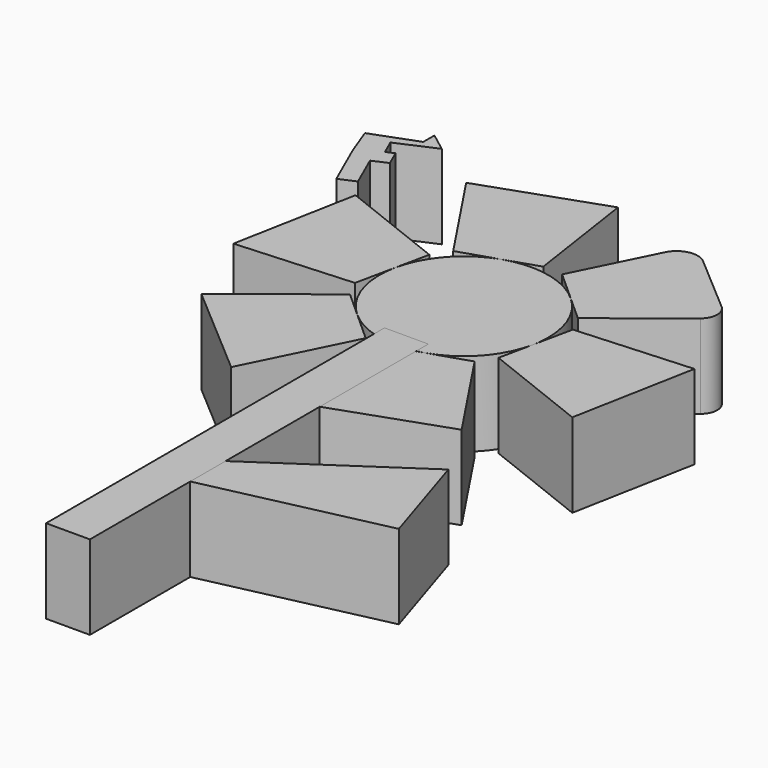
from build123d import *

# Parameters (mm, degrees)
F1_DEPTH = 25.4
F2_W     = 13.239067
F2_H     = 127.785755
F3_DEPTH = 25.4
F5_DEPTH = 25.4
F6_R     = 5.08
F8_DEPTH = 25.4


with BuildPart() as f1:
    # F0 (on Top) → F1 (new body)
    with BuildSketch(Plane.XY):
        with BuildLine():
            ThreePointArc((24.967536, -5.2811), (25.381471, -2.654956), (25.51995, 0))
            ThreePointArc((25.51995, 0), (23.308477, 10.391476), (17.057334, 18.98197))
            ThreePointArc((17.057334, 18.98197), (5.2811, 24.967536), (-7.910201, 24.26307))
            ThreePointArc((-7.910201, 24.26307), (-18.98197, 17.057334), (-24.967536, 5.2811))
            ThreePointArc((-24.967536, 5.2811), (-24.26307, -7.910201), (-17.057334, -18.98197))
            ThreePointArc((-17.057334, -18.98197), (-5.2811, -24.967536), (7.910201, -24.26307))
            ThreePointArc((7.910201, -24.26307), (18.98197, -17.057334), (24.967536, -5.2811))
        make_face()
        with BuildLine():
            Line((7.914659, 27.197644), (17.057334, 18.98197))
            Line((17.057334, 18.98197), (24.797997, 12.026155))
            Line((24.797997, 12.026155), (52.236743, 33.817176))
            Line((52.236743, 33.817176), (29.656374, 53.236297))
            ThreePointArc((29.656374, 53.236297), (24.25265, 54.644894), (19.82591, 51.240727))
            Line((19.82591, 51.240727), (7.914659, 27.197644))
        make_face()
        Polygon((-19.596521, 20.453117), (-7.910201, 24.26307), (1.984043, 27.488773), (-3.168162, 62.146935), (-38.993702, 49.597875), align=None)
        Polygon((-27.51118, -6.744527), (-24.967536, 5.2811), (-22.813954, 15.462618), (-55.404905, 28.329759), (-62.449871, -8.970598), align=None)
        Polygon((-7.914659, -27.197644), (-17.057334, -18.98197), (-24.797997, -12.026155), (-52.236743, -33.817176), (-23.456169, -58.568474), align=None)
        Polygon((19.596521, -20.453117), (7.910201, -24.26307), (-1.984043, -27.488773), (3.168162, -62.146935), (38.993702, -49.597875), align=None)
        Polygon((27.51118, 6.744527), (24.967536, -5.2811), (22.813954, -15.462618), (55.404905, -28.329759), (62.449871, 8.970598), align=None)
    extrude(amount=F1_DEPTH)

    # F6
    f6_edges = [f1.edges().sort_by_distance(p)[0] for p in [
        (52.236743, 33.817176, 12.7),
    ]]
    fillet(f6_edges, radius=F6_R)


with BuildPart() as f3:
    # F2 (on face) → F3 (new body)
    with BuildSketch(Plane.XY.offset(25.4)):
        with Locations((-1.10894, -84.215008)):
            Rectangle(F2_W, F2_H)
    extrude(amount=-F3_DEPTH)


with BuildPart() as f5:
    # F4 (on face) → F5 (new body)
    with BuildSketch(Plane.XY.offset(25.4)):
        Polygon((49.226433, -67.405827), (5.510593, -96.875302), (5.510593, -110.224724), (59.049591, -98.386556), align=None)
    extrude(amount=-F5_DEPTH)


with BuildPart() as f8:
    # F7 (on Top) → F8 (new body)
    with BuildSketch(Plane.XY):
        Polygon((-59.939828, 63.804574), (-59.939828, 59.568539), (-73.495127, 54.485299), (-70.20495, 45.711497), (-64.175859, 32.034345), (-59.336262, 34.167711), (-63.782956, 44.255154), (-59.336262, 46.215322), (-61.424321, 50.952139), (-63.782956, 49.912418), (-65.798749, 54.485299), (-54.32206, 59.544393), align=None)
    extrude(amount=F8_DEPTH)


solid = Compound([f1.part, f3.part, f5.part, f8.part])
